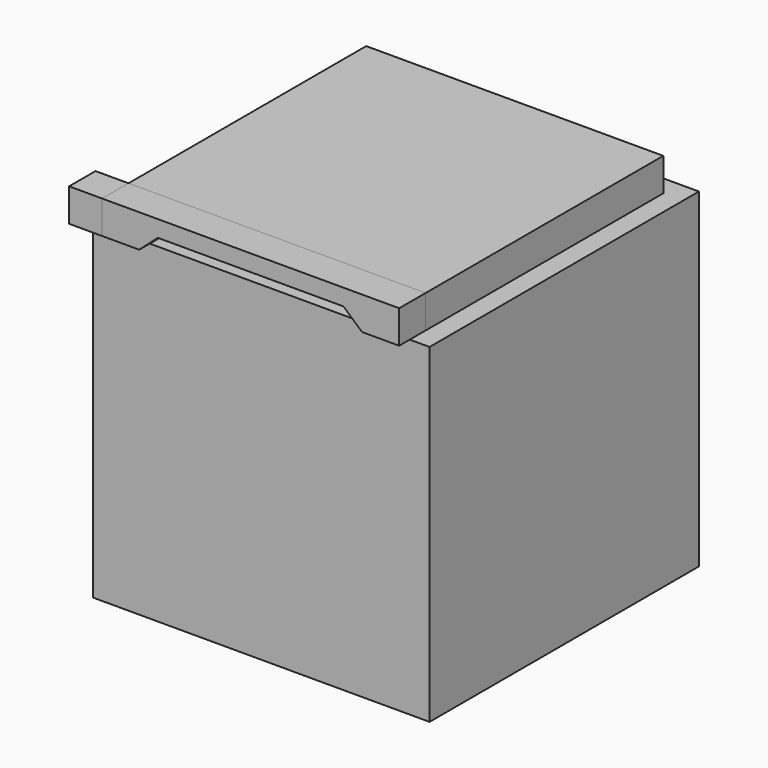
from build123d import *

# Parameters (mm, degrees)
F0_W      = 25.908
F0_H      = 25.908
F0_W_2    = 22.86
F0_H_2    = 22.86
F1_DEPTH  = 25.4
F2_DEPTH  = 27.94
F3_W      = 22.86
F3_H      = 2.5400505984
F4_DEPTH  = 2.54
F5_W      = 2.54
F5_H      = 2.5400505984
F6_DEPTH  = 2.54
F8_DEPTH  = 2.54
F9_W      = 19.251639167
F9_H      = 19.2678975516
F10_DEPTH = 25.4


with BuildPart() as f1:
    # F0 (on Top) → F1 (new body)
    with BuildSketch(Plane.XY):
        with Locations((-11.43, 11.43)):
            Rectangle(F0_W, F0_H)
        with Locations((-11.43, 11.43)):
            Rectangle(F0_W_2, F0_H_2, mode=Mode.SUBTRACT)
    extrude(amount=F1_DEPTH)


with BuildPart() as f2:
    # F0 (on Top) → F2 (new body)
    with BuildSketch(Plane.XY):
        with Locations((-11.43, 11.43)):
            Rectangle(F0_W_2, F0_H_2)
    extrude(amount=F2_DEPTH)

    # F9 (on face) → F10 (cut)
    with BuildSketch(Plane(origin=(0, 0, 0), x_dir=(1, 0, 0), z_dir=(0, 0, -1))):
        with Locations((-11.4381291923, -11.43)):
            Rectangle(F9_W, F9_H)
    extrude(amount=-F10_DEPTH, mode=Mode.SUBTRACT)


with BuildPart() as f4:
    # F3 (on face) → F4 (new body)
    with BuildSketch(Plane.XZ):
        with Locations((-11.43, 26.6699747008)):
            Rectangle(F3_W, F3_H)
    extrude(amount=F4_DEPTH)


with BuildPart() as f6:
    # F5 (on face) → F6 (new body)
    with BuildSketch(Plane(origin=(-22.86, 0, 0), x_dir=(0, -1, 0), z_dir=(-1, 0, 0))):
        with Locations((1.27, 26.6699747008)):
            Rectangle(F5_W, F5_H)
    extrude(amount=F6_DEPTH)


with BuildPart() as f8_tool:
    # F7 (on face) → F8 (new body)
    with BuildSketch(Plane.XZ.offset(2.54)):
        Polygon((-4.28625, 26.6699747008), (-18.57375, 26.6699747008), (-20.0025, 25.3999494016), (-2.8575, 25.3999494016), align=None)
    extrude(amount=-F8_DEPTH)


with BuildPart() as f1_1:
    add(f1.part)

    # F8: cut by f8_tool
    add(f8_tool.part, mode=Mode.SUBTRACT)


with BuildPart() as f4_1:
    add(f4.part)

    # F8: cut by f8_tool
    add(f8_tool.part, mode=Mode.SUBTRACT)


solid = Compound([f2.part, f6.part, f1_1.part, f4_1.part])
